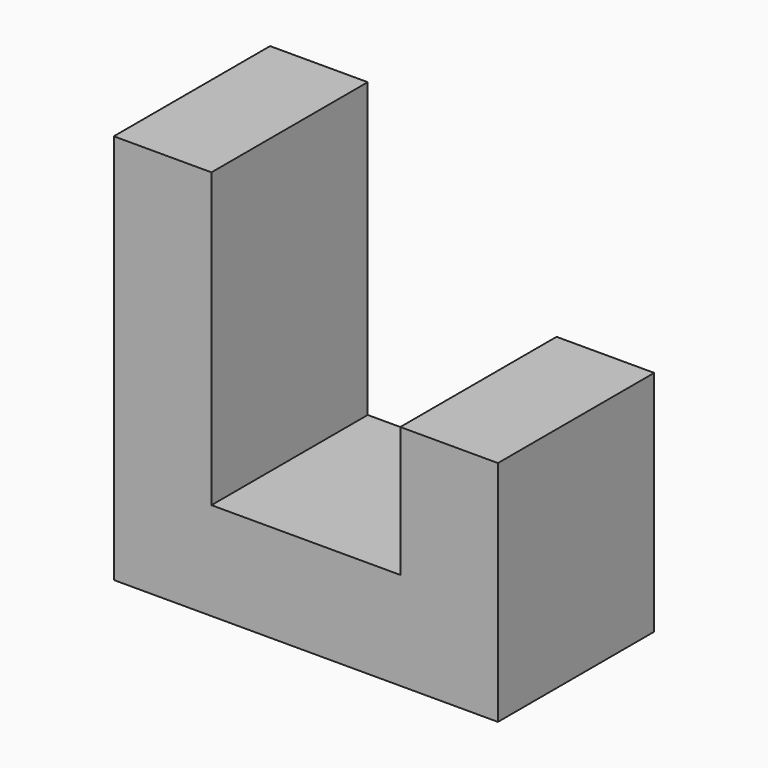
from build123d import *

# Parameters (mm, degrees)
F1_DEPTH  = 30
F1_FACE_W = 15
F1_FACE_H = 30
F2_DEPTH  = 25


with BuildPart() as f1:
    # F0 (on Front) → F1 (new body)
    with BuildSketch(Plane.XZ):
        Polygon((-25.400001, 0), (33.599999, 0), (33.599999, 35), (18.599999, 35), (18.599999, 15), (-10.400001, 15), (-10.400001, 35), (-25.400001, 35), align=None)
    extrude(amount=F1_DEPTH)

    # F1_face (on face) → F2 (join)
    with BuildSketch(Plane(origin=(-17.900001, -15, 35), x_dir=(1, 0, 0), z_dir=(0, 0, 1))):
        Rectangle(F1_FACE_W, F1_FACE_H)
    extrude(amount=F2_DEPTH)


solid = f1.part
